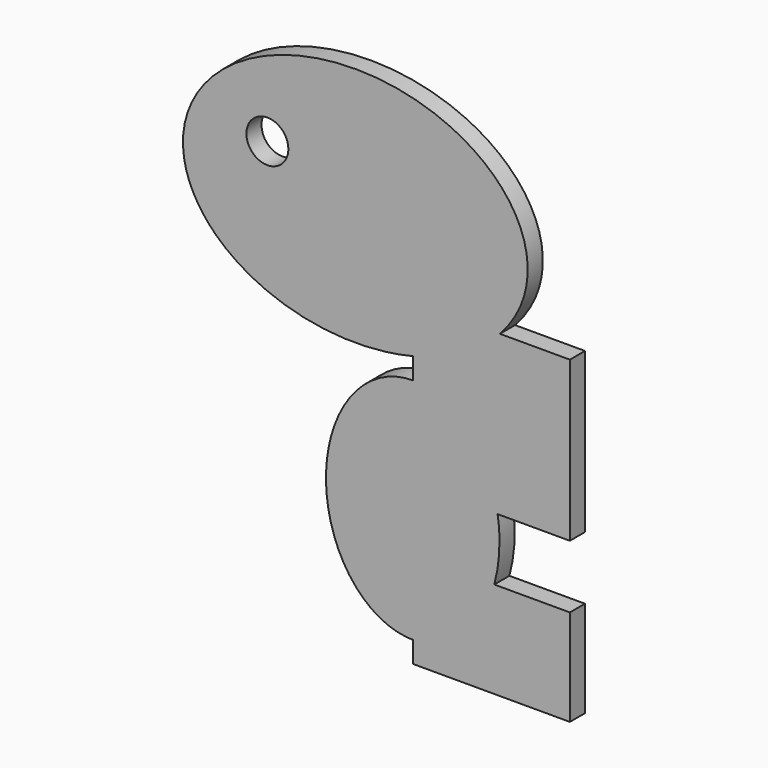
from build123d import *

# Parameters (mm, degrees)
F0_R     = 3.3292420405
F1_DEPTH = 3


with BuildPart() as f1:
    # F0 (on Front) → F1 (new body)
    with BuildSketch(Plane.XZ):
        with BuildLine():
            Line((34.0541563928, 35.3221818805), (22.9476508448, 35.3221818805))
            add(Edge.make_bspline(
                [(22.9476508448, 35.3221818805), (51.798273221, 66.3899498883), (-1.1274457032, 64.8635530565), (-54.0531646273, 63.3371562246), (-21.64264039, 34.036181791)],
                knots=[2.565618048, 2.565618048, 2.565618048, 4.7536051163, 4.7536051163, 6.9415921846, 6.9415921846, 6.9415921846], degree=2, weights=[1, 0.4589409135, 1, 0.4589409135, 1]))
            add(Edge.make_bspline(
                [(-21.64264039, 34.036181791), (-9.5379908267, 23.0928837195), (9.1153876856, 27.7019518684)],
                knots=[0.6584068774, 0.6584068774, 0.6584068774, 1.9104257686, 1.9104257686, 1.9104257686], degree=2, weights=[1, 0.8103720826, 1]))
            Line((9.1153876856, 27.7019518684), (9.1153876856, 24.3202078543))
            add(Edge.make_bspline(
                [(9.1153876856, 24.3202078543), (-4.6567702666, 24.3202078543), (-4.6567702666, 6.2010746112), (-4.6567702666, -11.9180586319), (9.1153876856, -11.9180586319)],
                knots=[3.1415926536, 3.1415926536, 3.1415926536, 4.7123889804, 4.7123889804, 6.2831853072, 6.2831853072, 6.2831853072], degree=2, weights=[1, 0.7071067812, 1, 0.7071067812, 1]))
            Line((9.1153876856, -11.9180586319), (9.1153876856, -15.299802646))
            Line((9.1153876856, -15.299802646), (34.0541563928, -15.299802646))
            Line((34.0541563928, -15.299802646), (34.0541563928, 0))
            Line((34.0541563928, 0), (22.0558852773, 0))
            add(Edge.make_bspline(
                [(22.0558852773, 0), (23.4141993, 4.9063107447), (22.5796128831, 10.0111896172)],
                knots=[1.2214975307, 1.2214975307, 1.2214975307, 1.7826590175, 1.7826590175, 1.7826590175], degree=2, weights=[1, 0.9608947845, 1]))
            Line((22.5796128831, 10.0111896172), (34.0541563928, 10.0111896172))
            Line((34.0541563928, 10.0111896172), (34.0541563928, 35.3221818805))
        make_face()
        with Locations((-13.9622846618, 50.2110011876)):
            Circle(F0_R, mode=Mode.SUBTRACT)
    extrude(amount=F1_DEPTH)


solid = f1.part
